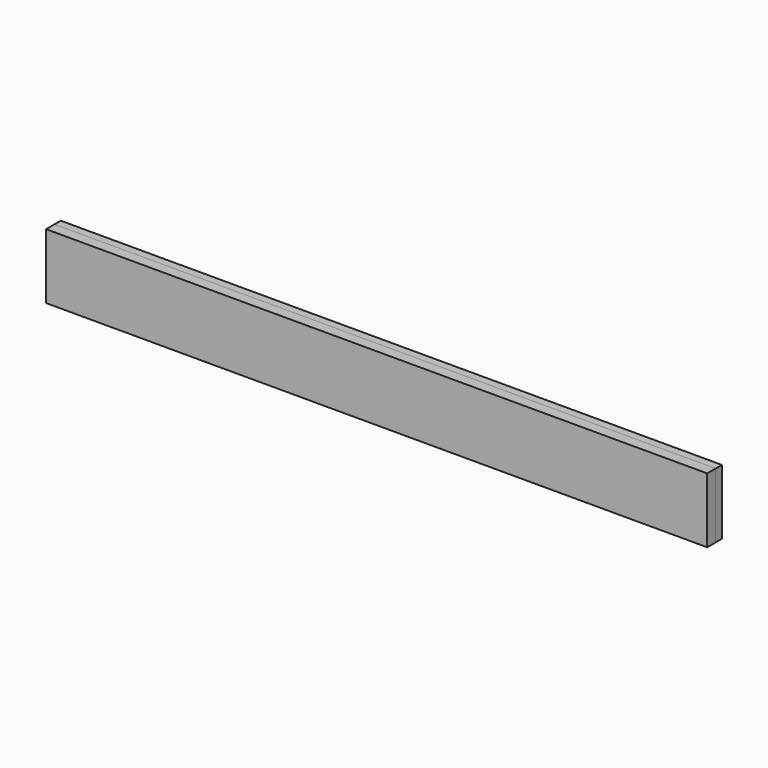
from build123d import *

# Parameters (mm, degrees)
F0_W     = 800.1
F0_H     = 78.74
F1_DEPTH = 12.7
F2_W     = 800.1
F2_H     = 78.74
F3_DEPTH = 9.525


with BuildPart() as f1:
    # F0 (on Front) → F1 (new body)
    with BuildSketch(Plane.XZ):
        with Locations((26.766477, 39.37)):
            Rectangle(F0_W, F0_H)
    extrude(amount=F1_DEPTH)


with BuildPart() as f3:
    # F2 (on face) → F3 (new body)
    with BuildSketch(Plane(origin=(0, 0, 0), x_dir=(-1, 0, 0), z_dir=(0, 1, 0))):
        with Locations((-26.766477, 39.37)):
            Rectangle(F2_W, F2_H)
    extrude(amount=F3_DEPTH)


solid = Compound([f1.part, f3.part])
